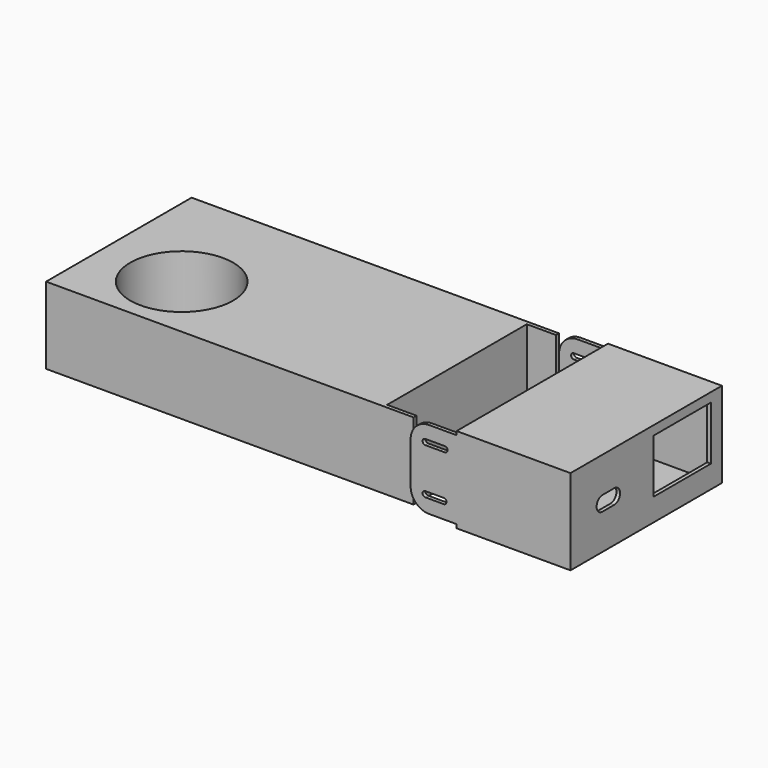
from build123d import *

# Parameters (mm, degrees)
F0_W      = 200
F0_H      = 99
F1_DEPTH  = 41.8
F2_W      = 16
F2_H      = 95
F2_R      = 28
F3_DEPTH  = 38
F4_R      = 1.6
F5_DEPTH  = 25
F7_W      = 103
F7_H      = 46.6
F7_W_2    = 94.2
F7_H_2    = 42.6
F8_DEPTH  = 60
F9_W      = 103
F9_H      = 46.6
F9_W_2    = 94.2
F9_H_2    = 42.6
F10_DEPTH = 2
F11_W     = 39
F11_H     = 29.3
F12_DEPTH = 2
F13_W     = 99
F13_H     = 42.6
F14_DEPTH = 16
F15_W     = 2
F15_H     = 42.6
F16_DEPTH = 25
F17_R     = 10
F19_DEPTH = 103.001


with BuildPart() as f1:
    # F0 (on Top) → F1 (new body)
    with BuildSketch(Plane.XY):
        Rectangle(F0_W, F0_H)
    extrude(amount=F1_DEPTH)

    # F2 (on face) → F3 (cut)
    with BuildSketch(Plane.XY.offset(41.8)):
        with Locations((92, 0)):
            Rectangle(F2_W, F2_H)
        with Locations((-55, -13.5)):
            Circle(F2_R)
    extrude(amount=-F3_DEPTH, mode=Mode.SUBTRACT)

    # F4 (on face) → F5 (cut)
    with BuildSketch(Plane(origin=(0, 0, 0), x_dir=(1, 0, 0), z_dir=(0, 0, -1))):
        with Locations((-75, 25)):
            Circle(F4_R)
        with Locations((75, 25)):
            Circle(F4_R)
        with Locations((-75, -25)):
            Circle(F4_R)
        with Locations((75, -25)):
            Circle(F4_R)
    extrude(amount=-F5_DEPTH, mode=Mode.SUBTRACT)



with BuildPart() as f8:
    # F7 (on offset) → F8 (new body)
    with BuildSketch(Plane.YZ.offset(125)):
        with Locations((0, 20.9)):
            Rectangle(F7_W, F7_H)
        with Locations((0, 20.9)):
            Rectangle(F7_W_2, F7_H_2, mode=Mode.SUBTRACT)
    extrude(amount=F8_DEPTH)

    # F9 (on face) → F10 (join)
    with BuildSketch(Plane.YZ.offset(185)):
        with Locations((0, 20.9)):
            Rectangle(F9_W, F9_H)
        with Locations((0, 20.9)):
            Rectangle(F9_W_2, F9_H_2, mode=Mode.SUBTRACT)
        with Locations((0, 20.9)):
            Rectangle(F9_W_2, F9_H_2)
    extrude(amount=F10_DEPTH)

    # F11 (on face) → F12 (cut, through all)
    with BuildSketch(Plane.YZ.offset(187)):
        with Locations((24.5, 24.55)):
            Rectangle(F11_W, F11_H)
        with BuildLine():
            ThreePointArc((-29.75, 24.9), (-33.75, 20.9), (-29.75, 16.9))
            Line((-29.75, 16.9), (-21.75, 16.9))
            ThreePointArc((-21.75, 16.9), (-17.75, 20.9), (-21.75, 24.9))
            Line((-21.75, 24.9), (-29.75, 24.9))
        make_face()
    extrude(amount=-F12_DEPTH, mode=Mode.SUBTRACT)

    # F13 (on face) → F14 (cut)
    with BuildSketch(Plane(origin=(125, 0, 0), x_dir=(0, -1, 0), z_dir=(-1, 0, 0))):
        with Locations((0, 20.9)):
            Rectangle(F13_W, F13_H)
    extrude(amount=-F14_DEPTH, mode=Mode.SUBTRACT)


with BuildPart() as f1_1:
    add(f1.part)

    add(f8.part)  # F16 merges F8
    # F15 (on face) → F16 (join)
    with BuildSketch(Plane(origin=(125, 0, 0), x_dir=(0, -1, 0), z_dir=(-1, 0, 0))):
        with Locations((-50.5, 20.9)):
            Rectangle(F15_W, F15_H)
        with Locations((50.5, 20.9)):
            Rectangle(F15_W, F15_H)
    extrude(amount=F16_DEPTH)

    # F17
    f17_edges = [f1_1.edges().sort_by_distance(p)[0] for p in [
        (100, 50.5, 42.2),
        (100, 50.5, -0.4),
        (100, -50.5, 42.2),
        (100, -50.5, -0.4),
    ]]
    fillet(f17_edges, radius=F17_R)

    # F18 (on face) → F19 (cut, through all)
    with BuildSketch(Plane(origin=(0, 51.5, 0), x_dir=(-1, 0, 0), z_dir=(0, 1, 0))):
        with BuildLine():
            ThreePointArc((-118.5887327194, 34.9), (-120.0887327194, 33.4), (-118.5887327194, 31.9))
            Line((-118.5887327194, 31.9), (-108, 31.9))
            ThreePointArc((-108, 31.9), (-106.5, 33.4), (-108, 34.9))
            Line((-108, 34.9), (-118.5887327194, 34.9))
        make_face()
        with BuildLine():
            ThreePointArc((-118, 9.9), (-119.5, 8.4), (-118, 6.9))
            Line((-118, 6.9), (-108, 6.9))
            ThreePointArc((-108, 6.9), (-106.5, 8.4), (-108, 9.9))
            Line((-108, 9.9), (-118, 9.9))
        make_face()
    extrude(amount=-F19_DEPTH, mode=Mode.SUBTRACT)


solid = f1_1.part
